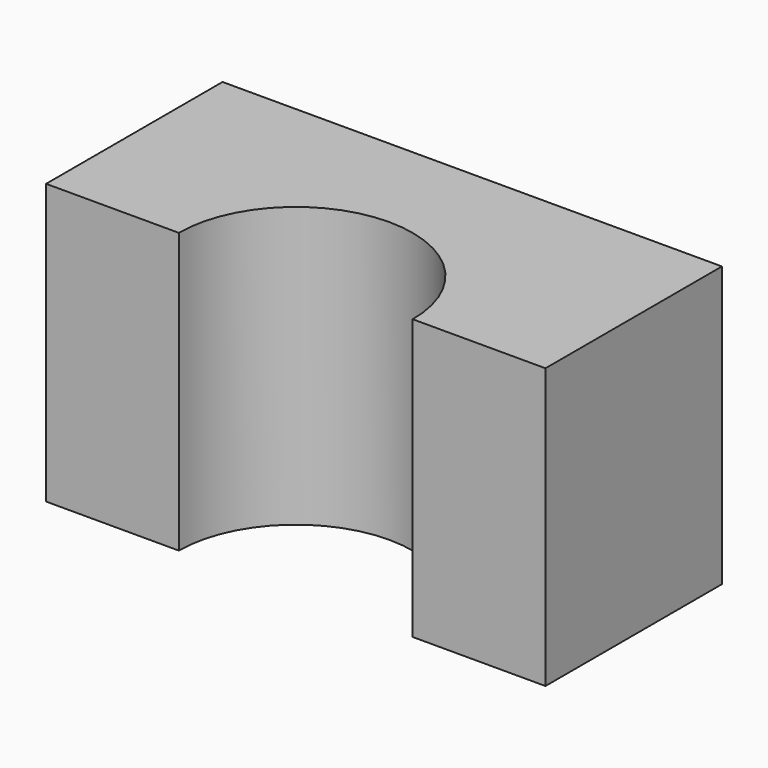
from build123d import *

# Parameters (mm, degrees)
F0_W     = 57.50962
F0_H     = 32.216034
F1_DEPTH = 25.4
F3_DEPTH = 32.217035


with BuildPart() as f1:
    # F0 (on Front) → F1 (new body)
    with BuildSketch(Plane.XZ):
        Rectangle(F0_W, F0_H)
    extrude(amount=F1_DEPTH)

    # F2 (on face) → F3 (cut, through all)
    with BuildSketch(Plane.XY.offset(16.108017)):
        with BuildLine():
            Line((-13.464067, -25.4), (13.464067, -25.4))
            ThreePointArc((13.464067, -25.4), (0, -11.935933), (-13.464067, -25.4))
        make_face()
    extrude(amount=-F3_DEPTH, mode=Mode.SUBTRACT)


solid = f1.part
